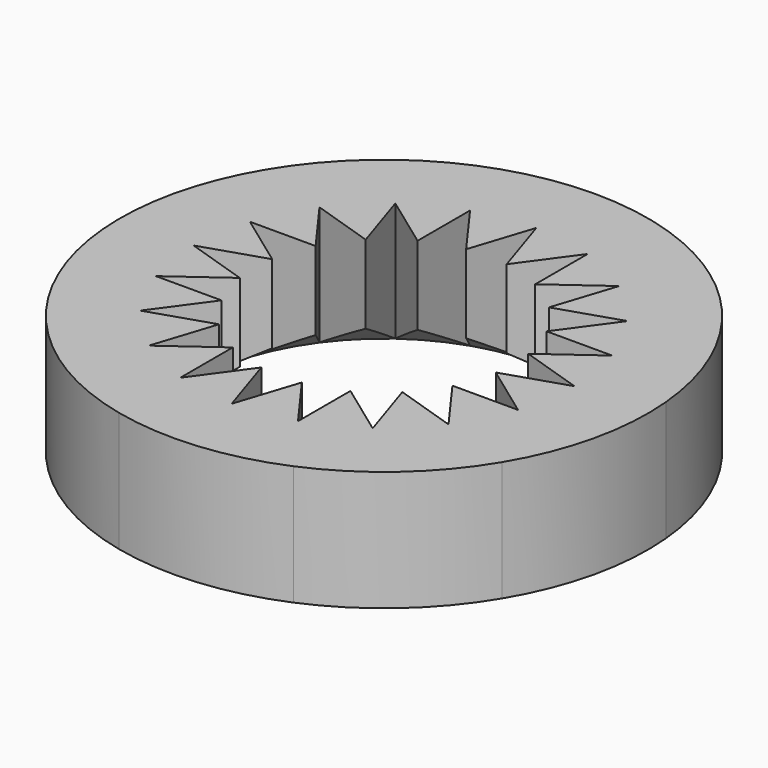
from build123d import *

# Parameters (mm, degrees)
PAD016_DEPTH          = 5
POLARPATTERN013_COUNT = 10


with BuildPart() as part:
    # Sketch022 → Pad016 (new body)
    with BuildSketch(Plane.XY):
        with BuildLine():
            ThreePointArc((4.319673, 10.116344), (0, 11), (-4.319673, 10.116344))
            Line((-0.844746, 5.333517), (-4.319673, 10.116344))
            Line((0, 7.933378), (-0.844746, 5.333517))
            Line((0, 7.933378), (0.844746, 5.333517))
            Line((4.319673, 10.116344), (0.844746, 5.333517))
        make_face()
    pad016 = extrude(amount=PAD016_DEPTH)

    # PolarPattern013: Pad016 ×10 about axis
    polarpattern013_axis = Axis((0, 0, 0), (0, 0, 1))
    for i in range(1, POLARPATTERN013_COUNT):
        add(pad016.rotate(polarpattern013_axis, i * 360 / POLARPATTERN013_COUNT))

    # Cone003 → Cone003 (revolve, cut)
    with BuildSketch(Plane(origin=(0, 0, 2), x_dir=(-1, 0, 0), z_dir=(0, -1, 0))):
        Polygon((0, 0), (5, 0), (8, 2), (0, 2), align=None)
    revolve(axis=Axis((0, 0, 2), (0, 0, -1)), mode=Mode.SUBTRACT)


with BuildPart() as part_1:
    # Body028 placement: moved
    add(part.part.moved(Location((0, 0, 30))))


solid = part_1.part
